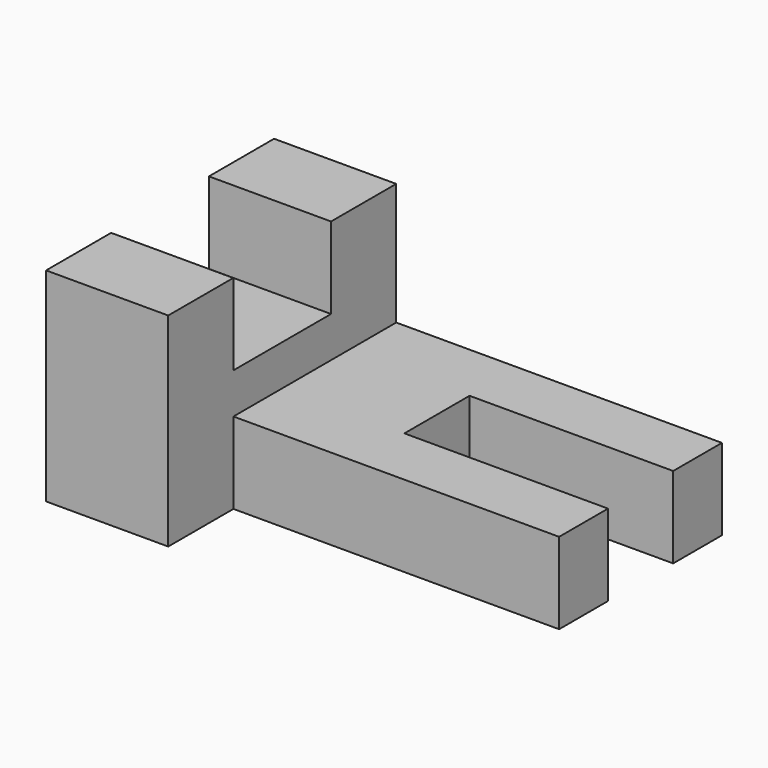
from build123d import *

# Parameters (mm, degrees)
F1_DEPTH = 19.05
F2_W     = 31.7388475657
F2_H     = 12.6919411123
F3_DEPTH = 50.8
F4_W     = 31.7593351066
F4_H     = 12.702934444
F5_DEPTH = 25.4


with BuildPart() as f1:
    # F0 (on Right) → F1 (new body)
    with BuildSketch(Plane.YZ):
        Polygon((0, 31.7267506936), (0, 0), (44.45, 0), (44.45, 31.7312787083), (31.7450927711, 31.7312787083), (31.7450927711, 19.0298414173), (12.6803467474, 19.0298414173), (12.6803467474, 31.7267506936), align=None)
    extrude(amount=F1_DEPTH)

    # F2 (on face) → F3 (join)
    with BuildSketch(Plane.YZ.offset(19.05)):
        with Locations((28.5805762172, 6.3459705561)):
            Rectangle(F2_W, F2_H)
    extrude(amount=F3_DEPTH)

    # F4 (on face) → F5 (cut)
    with BuildSketch(Plane.XY.offset(12.6919411123)):
        with Locations((53.9703324467, 28.594661504)):
            Rectangle(F4_W, F4_H)
    extrude(amount=-F5_DEPTH, mode=Mode.SUBTRACT)


solid = f1.part
